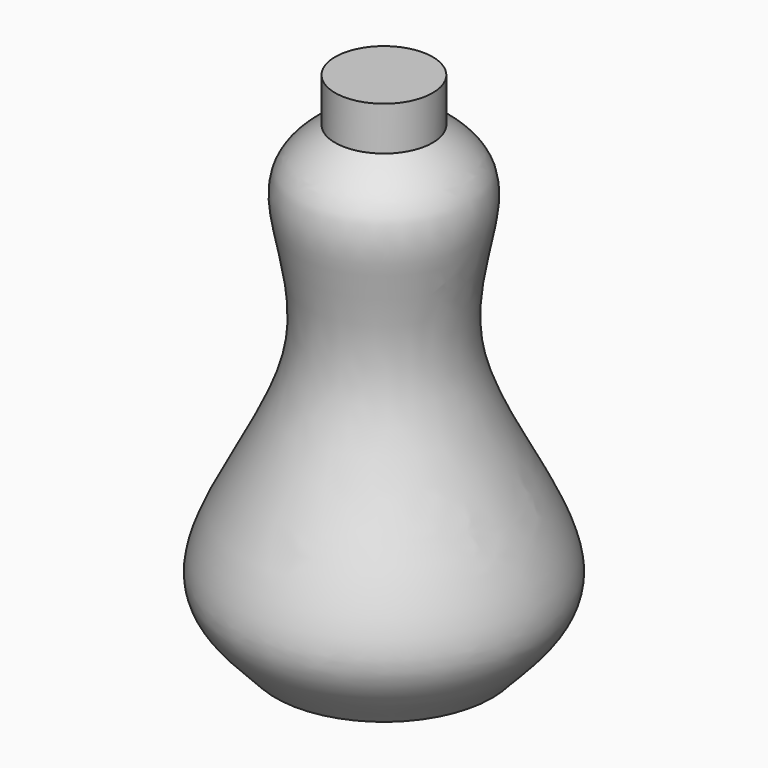
from build123d import *


with BuildPart() as f1:
    # F0 (on Front) → F1 (revolve)
    with BuildSketch(Plane.XZ):
        with BuildLine():
            Line((0, 53.1824193895), (0, 0))
            Line((0, 0), (11.2264323552, 0))
            add(Edge.make_bspline(
                [(5.0544536489, 48.6364796709), (8.5261231287, 46.2856596029), (10.741384426, 42.0872945404), (4.3297599846, 27.1411750852), (20.3547474994, 7.8572815911), (13.5716198271, 2.5944104072), (11.2264323552, 0)],
                knots=[0, 0, 0, 0, 0.1983830558, 0.4624623661, 0.7848121914, 1, 1, 1, 1], degree=3))
            Line((5.0544536489, 48.6364796709), (5.0544536489, 53.1824193895))
            Line((5.0544536489, 53.1824193895), (0, 53.1824193895))
        make_face()
    revolve(axis=Axis((0, 0, 26.5912096947), (0, 0, 1)))


solid = f1.part
